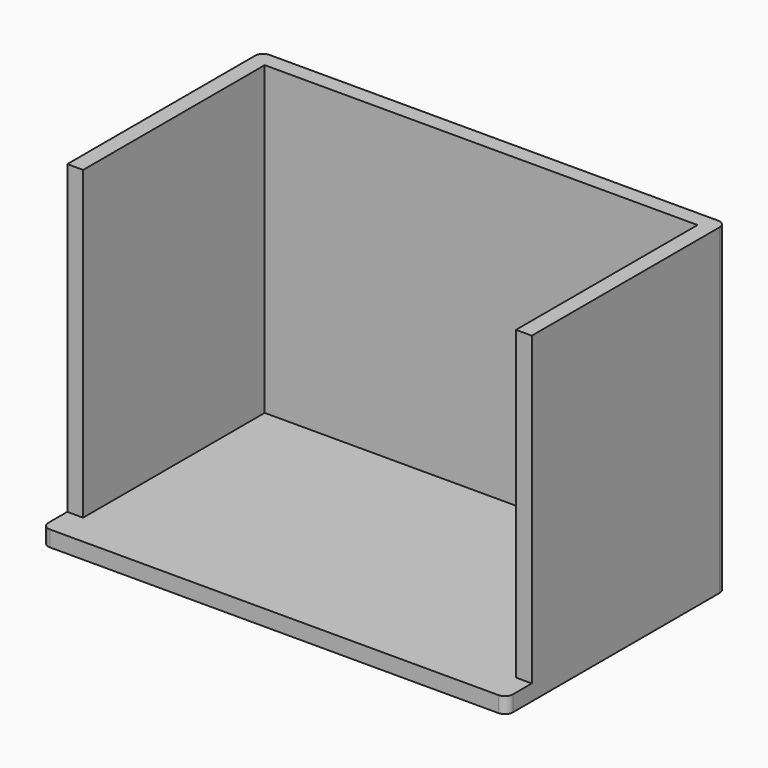
from build123d import *

# Parameters (mm, degrees)
F1_DEPTH = 19.05
F0_W     = 19.05
F0_H     = 273.05
F2_DEPTH = 387.35
F3_R     = 9.525


with BuildPart() as f1:
    # F0 (on Top) → F1 (new body)
    with BuildSketch(Plane.XY):
        Polygon((0, 38.1), (0, 0), (558.8, 0), (558.8, 38.1), (539.75, 38.1), (539.75, 311.15), (19.05, 311.15), (19.05, 38.1), align=None)
    extrude(amount=F1_DEPTH)

    # F0 (on Top) → F2 (join)
    with BuildSketch(Plane.XY):
        Polygon((0, 330.2), (0, 311.15), (19.05, 311.15), (539.75, 311.15), (558.8, 311.15), (558.8, 330.2), align=None)
        with Locations((9.525, 174.625)):
            Rectangle(F0_W, F0_H)
        with Locations((549.275, 174.625)):
            Rectangle(F0_W, F0_H)
    extrude(amount=F2_DEPTH)

    # F3
    f3_edges = [f1.edges().sort_by_distance(p)[0] for p in [
        (0, 330.2, 193.675),
        (558.8, 330.2, 193.675),
        (558.8, 0, 9.525),
        (0, 0, 9.525),
    ]]
    fillet(f3_edges, radius=F3_R)


solid = f1.part
